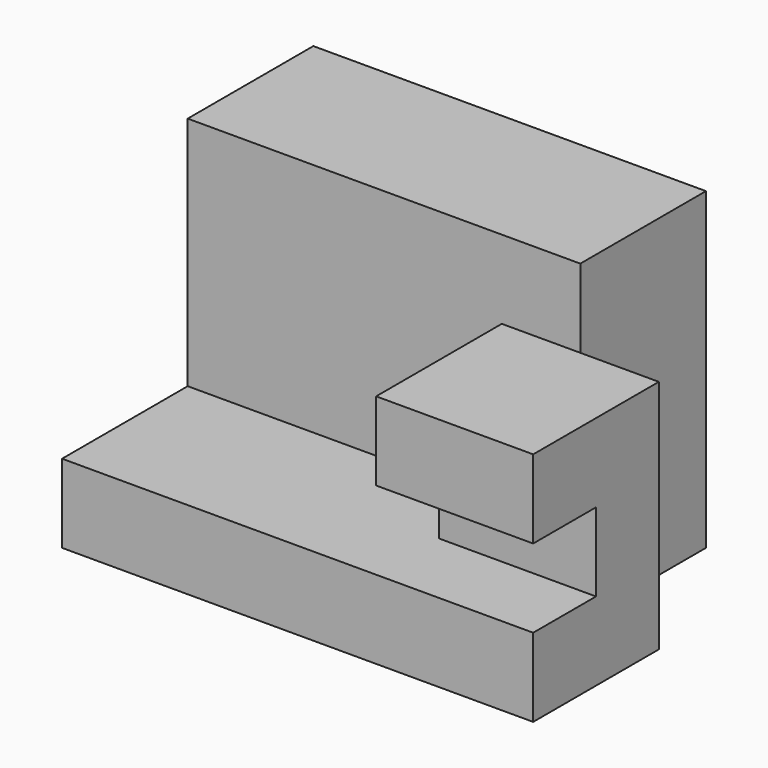
from build123d import *

# Parameters (mm, degrees)
F0_W     = 60
F0_H     = 40
F1_DEPTH = 40
F2_W     = 20
F2_H     = 10
F3_DEPTH = 60
F4_DEPTH = 10
F5_W     = 40
F5_H     = 20
F6_DEPTH = 20
F7_W     = 10
F7_H     = 10
F8_DEPTH = 20


with BuildPart() as f1:
    # F0 (on Front) → F1 (new body)
    with BuildSketch(Plane.XZ):
        with Locations((30, 20)):
            Rectangle(F0_W, F0_H)
    extrude(amount=F1_DEPTH)

    # F2 (on face) → F3 (cut)
    with BuildSketch(Plane.YZ.offset(60)):
        with Locations((-30, 35)):
            Rectangle(F2_W, F2_H)
    extrude(amount=-F3_DEPTH, mode=Mode.SUBTRACT)

    # F2 (on face) → F4 (cut)
    with BuildSketch(Plane.YZ.offset(60)):
        Polygon((-20, 0), (0, 0), (0, 40), (-20, 40), (-20, 30), align=None)
    extrude(amount=-F4_DEPTH, mode=Mode.SUBTRACT)

    # F5 (on face) → F6 (cut)
    with BuildSketch(Plane.XZ.offset(40)):
        with Locations((20, 20)):
            Rectangle(F5_W, F5_H)
    extrude(amount=-F6_DEPTH, mode=Mode.SUBTRACT)

    # F7 (on face) → F8 (cut)
    with BuildSketch(Plane.YZ.offset(60)):
        with Locations((-35, 15)):
            Rectangle(F7_W, F7_H)
    extrude(amount=-F8_DEPTH, mode=Mode.SUBTRACT)


solid = f1.part
